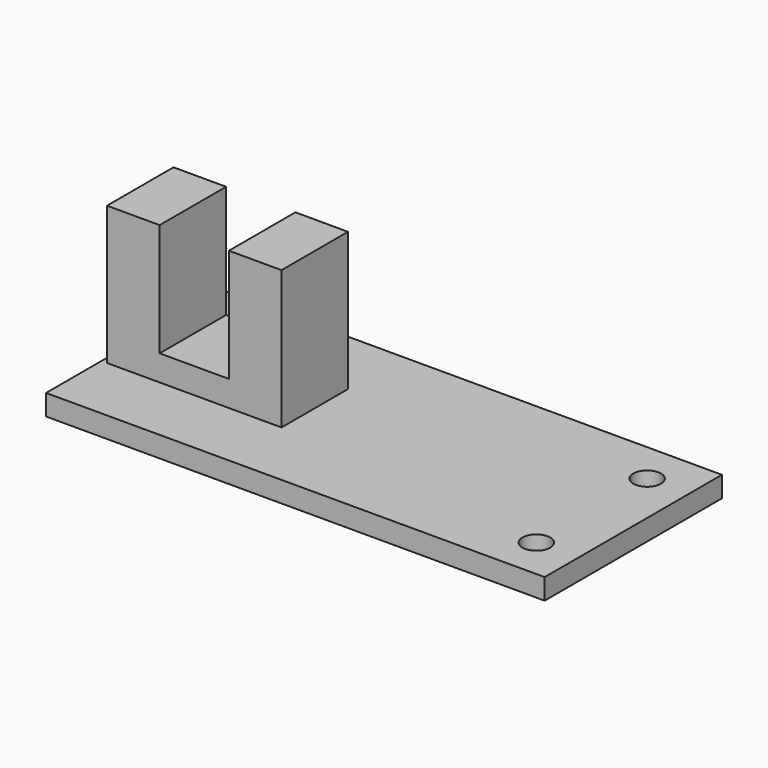
from build123d import *

# Parameters (mm, degrees)
CYLINDER1054_R     = 1
CYLINDER1054_DEPTH = 5
CYLINDER1055_R     = 1
CYLINDER1055_DEPTH = 5
BOX258_W           = 36
BOX258_H           = 16
BOX258_DEPTH       = 1.5
PAD042_DEPTH       = 3


with BuildPart() as cylinder1062:
    # Cylinder1054 → Cylinder1054 (new body)
    with BuildSketch(Plane(origin=(33, 3, 0), x_dir=(1, 0, 0), z_dir=(0, 0, 1))):
        Circle(CYLINDER1054_R)
    extrude(amount=CYLINDER1054_DEPTH)


with BuildPart() as fusion151:
    # Cylinder1055 → Cylinder1055 (new body)
    with BuildSketch(Plane(origin=(33, 13, 0), x_dir=(1, 0, 0), z_dir=(0, 0, 1))):
        Circle(CYLINDER1055_R)
    extrude(amount=CYLINDER1055_DEPTH)

    # Fusion151: union Cylinder1062
    add(cylinder1062.part)


with BuildPart() as cut:
    # Box258 → Box258 (new body)
    with BuildSketch(Plane.XY):
        with Locations((18, 8)):
            Rectangle(BOX258_W, BOX258_H)
    extrude(amount=BOX258_DEPTH)

    # Cut: cut Fusion151
    add(fusion151.part, mode=Mode.SUBTRACT)


with BuildPart() as obj1:
    # Sketch067 → Pad042 (new body, symmetric)
    with BuildSketch(Plane(origin=(13, 8, 1.5), x_dir=(0, 0, 1), z_dir=(0, -1, 0))):
        Polygon((0, 0), (10, 0), (10, 3.8), (1.85, 3.8), (1.85, 8.8), (10, 8.8), (10, 12.6), (0, 12.6), align=None)
    extrude(amount=PAD042_DEPTH, both=True)

    # Fusion152: union Cut
    add(cut.part)


solid = obj1.part
